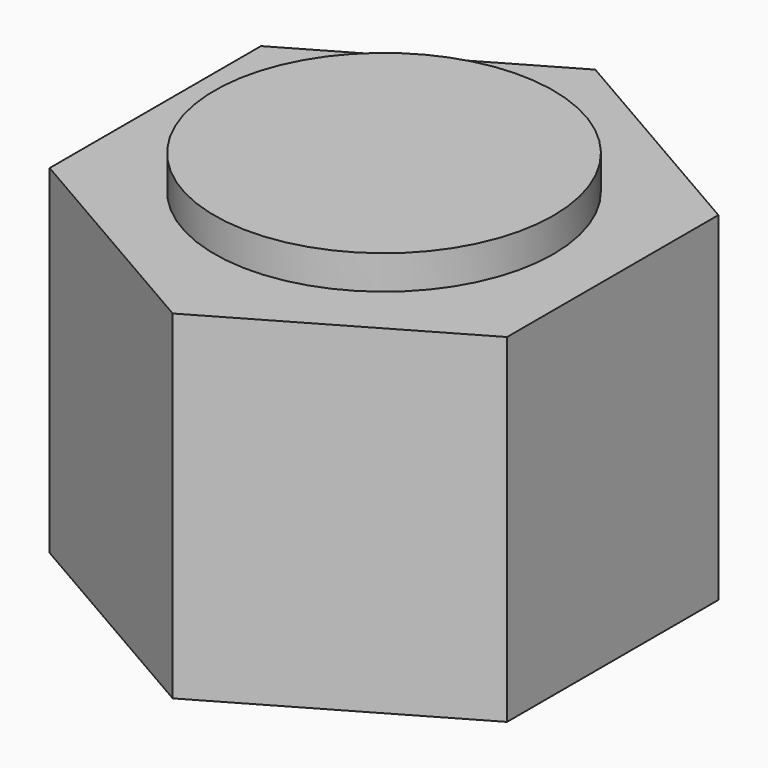
from build123d import *

# Parameters (mm, degrees)
F1_DEPTH = 20
F2_R     = 12.75
F3_DEPTH = 12
F4_R     = 10
F5_DEPTH = 2


with BuildPart() as f1:
    # F0 (on Top) → F1 (new body)
    with BuildSketch(Plane.XY):
        Polygon((0.001339, 15.588457), (-13.499331, 7.795388), (-13.500669, -7.793069), (-0.001339, -15.588457), (13.499331, -7.795388), (13.500669, 7.793069), align=None)
    extrude(amount=F1_DEPTH)

    # F2 (on Top) → F3 (cut)
    with BuildSketch(Plane.XY):
        Circle(F2_R)
    extrude(amount=F3_DEPTH, mode=Mode.SUBTRACT)

    # F4 (on face) → F5 (join)
    with BuildSketch(Plane.XY.offset(20)):
        Circle(F4_R)
    extrude(amount=F5_DEPTH)


solid = f1.part
